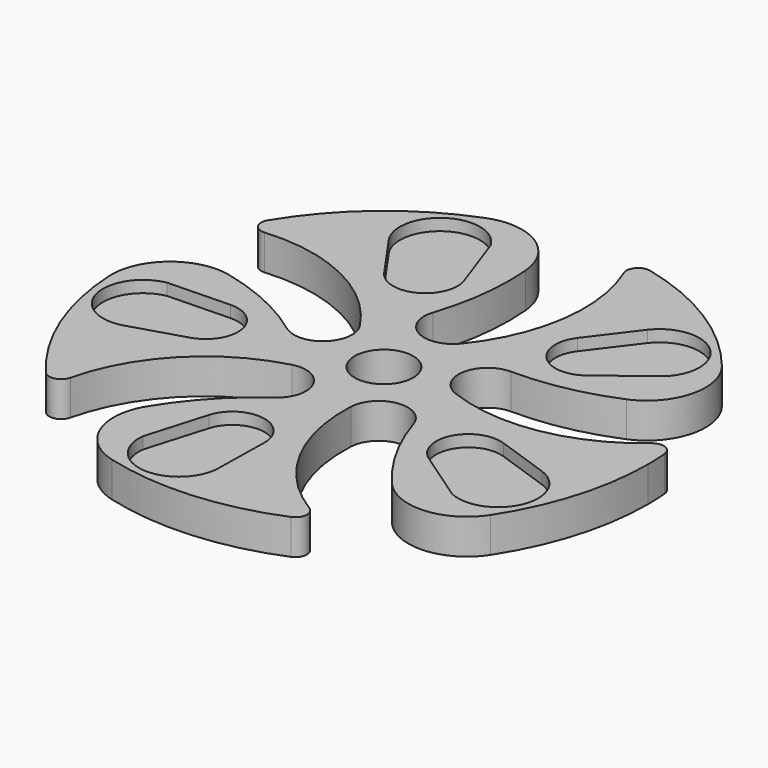
from build123d import *

# Parameters (mm, degrees)
F0_R     = 2.5
F1_DEPTH = 3
F3_DEPTH = 1
F4_R     = 1
F5_R     = 5


with BuildPart() as f1:
    # F0 (on Top) → F1 (new body)
    with BuildSketch(Plane.XY):
        with BuildLine():
            ThreePointArc((26.9266, 30.838311), (23.813743, 30.219291), (22.653252, 33.173326))
            ThreePointArc((22.653252, 33.173326), (23.755347, 39.958168), (22.653252, 46.74301))
            ThreePointArc((22.653252, 46.74301), (22.56988, 47.06248), (22.529791, 47.390206))
            ThreePointArc((22.529791, 47.390206), (12.038232, 43.423242), (4.760391, 34.888453))
            ThreePointArc((4.760391, 34.888453), (13.375341, 34.142684), (20.042788, 28.636443))
            ThreePointArc((20.042788, 28.636443), (19.669586, 25.484652), (16.50152, 25.293807))
            ThreePointArc((16.50152, 25.293807), (10.389318, 28.438593), (3.595984, 29.48707))
            ThreePointArc((3.595984, 29.48707), (3.266387, 29.506499), (2.942312, 29.569646))
            ThreePointArc((2.942312, 29.569646), (3.473049, 18.365721), (9.34114, 8.806687))
            ThreePointArc((9.34114, 8.806687), (12.712573, 16.769537), (20.009674, 21.409134))
            ThreePointArc((20.009674, 21.409134), (22.89188, 20.080241), (22.094398, 17.008257))
            ThreePointArc((22.094398, 17.008257), (17.214755, 12.166999), (14.118339, 6.030152))
            ThreePointArc((14.118339, 6.030152), (13.998009, 5.72269), (13.837808, 5.43399))
            ThreePointArc((13.837808, 5.43399), (24.657381, 2.476548), (35.561901, 5.10353))
            ThreePointArc((35.561901, 5.10353), (29.030612, 10.77061), (26.873021, 19.14428))
            ThreePointArc((26.873021, 19.14428), (29.027524, 21.474769), (31.702719, 19.767024))
            ThreePointArc((31.702719, 19.767024), (34.799136, 13.630177), (39.678779, 8.78892))
            ThreePointArc((39.678779, 8.78892), (39.934009, 8.579468), (40.159075, 8.337895))
            ThreePointArc((40.159075, 8.337895), (45.602154, 15.890964), (47.526058, 25))
            ThreePointArc((47.526058, 25), (47.441001, 26.955693), (47.186474, 28.896618))
            ThreePointArc((47.186474, 28.896618), (39.778481, 24.436216), (31.147916, 24.971831))
            ThreePointArc((31.147916, 24.971831), (29.597267, 27.741047), (32.04811, 29.757586))
            ThreePointArc((32.04811, 29.757586), (38.841444, 30.806063), (44.953646, 33.950849))
            ThreePointArc((44.953646, 33.950849), (45.231716, 34.128863), (45.531015, 34.268263))
            ThreePointArc((45.531015, 34.268263), (38.516138, 43.020469), (28.150094, 47.304712))
            ThreePointArc((28.150094, 47.304712), (30.102992, 38.880952), (26.9266, 30.838311))
        make_face()
        with Locations((25, 25)):
            Circle(F0_R, mode=Mode.SUBTRACT)
    extrude(amount=F1_DEPTH)

    # F2 (on face) → F3 (cut)
    with BuildSketch(Plane.XY.offset(3)):
        with BuildLine():
            Line((21.389643, 38.092463), (19.601768, 43.117597))
            ThreePointArc((19.601768, 43.117597), (14.827533, 44.37256), (13.780073, 39.548549))
            Line((13.780073, 39.548549), (16.545142, 35.594651))
            ThreePointArc((16.545142, 35.594651), (20.058983, 34.726419), (21.389643, 38.092463))
        make_face()
        with BuildLine():
            Line((35.369344, 40.166534), (32.463417, 36.314975))
            ThreePointArc((32.463417, 36.314975), (32.723516, 32.704815), (36.33601, 32.479447))
            Line((36.33601, 32.479447), (40.562714, 35.732669))
            ThreePointArc((40.562714, 35.732669), (40.280934, 40.661042), (35.369344, 40.166534))
        make_face()
        with BuildLine():
            Line((35.616397, 16.53009), (40.016518, 13.515557))
            ThreePointArc((40.016518, 13.515557), (44.616604, 15.306496), (42.628534, 19.824885))
            Line((42.628534, 19.824885), (38.067503, 21.398388))
            ThreePointArc((38.067503, 21.398388), (34.714412, 20.035419), (35.616397, 16.53009))
        make_face()
        with BuildLine():
            Line((20.225284, 12.285861), (18.718005, 7.169555))
            ThreePointArc((18.718005, 7.169555), (21.842794, 3.348044), (25.525689, 6.635069))
            Line((25.525689, 6.635069), (25.612744, 11.459106))
            ThreePointArc((25.612744, 11.459106), (23.280321, 14.226905), (20.225284, 12.285861))
        make_face()
        with BuildLine():
            Line((11.432666, 25.61214), (6.100996, 25.464622))
            ThreePointArc((6.100996, 25.464622), (3.432135, 21.311859), (7.69636, 18.824964))
            Line((7.69636, 18.824964), (12.311193, 20.232879))
            ThreePointArc((12.311193, 20.232879), (14.222768, 23.306442), (11.432666, 25.61214))
        make_face()
    extrude(amount=-F3_DEPTH, mode=Mode.SUBTRACT)

    # F4
    f4_edges = [f1.edges().sort_by_distance(p)[0] for p in [
        (4.760391, 34.888453, 1.5),
        (9.34114, 8.806687, 1.5),
        (35.561901, 5.10353, 1.5),
        (47.186474, 28.896618, 1.5),
        (28.150094, 47.304712, 1.5),
    ]]
    fillet(f4_edges, radius=F4_R)

    # F5
    f5_edges = [f1.edges().sort_by_distance(p)[0] for p in [
        (13.837808, 5.43399, 1.5),
        (2.942312, 29.569646, 1.5),
        (22.529791, 47.390206, 1.5),
        (45.531015, 34.268263, 1.5),
        (40.159075, 8.337895, 1.5),
    ]]
    fillet(f5_edges, radius=F5_R)


solid = f1.part
